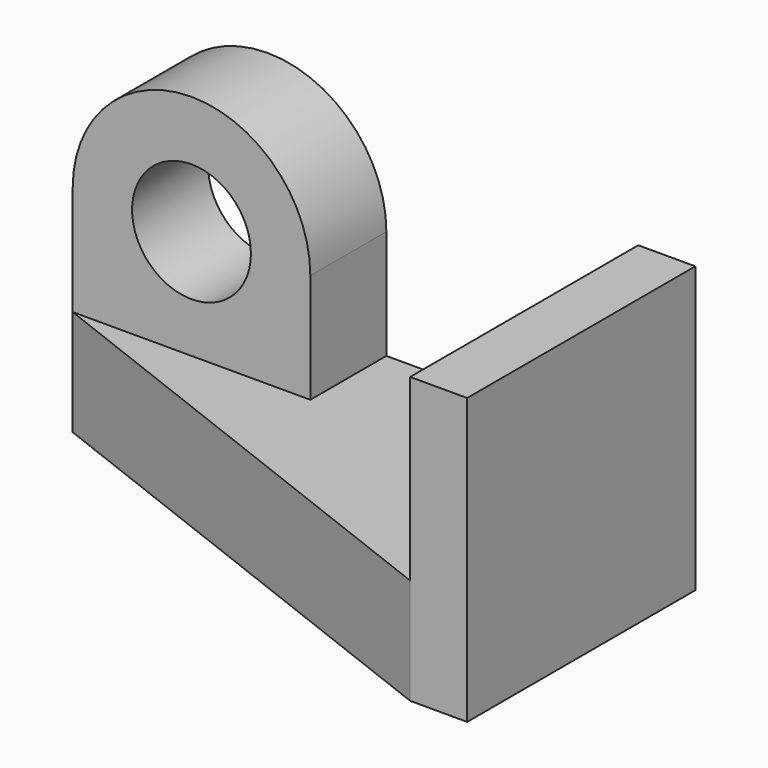
from build123d import *

# Parameters (mm, degrees)
F0_W      = 1524
F0_H      = 1524
F1_DEPTH  = 304.8
F2_W      = 1524
F2_H      = 565.6017661095
F3_DEPTH  = 2921
F4_W      = 1270
F4_H      = 508
F5_DEPTH  = 584.2
F7_DEPTH  = 508
F8_R      = 317.5
F9_DEPTH  = 25.4
F10_DEPTH = 25.4
F11_R     = 317.5
F12_DEPTH = 1930.4
F14_DEPTH = 2006.6


with BuildPart() as f1:
    # F0 (on Right) → F1 (new body)
    with BuildSketch(Plane.YZ):
        with Locations((-762, 762)):
            Rectangle(F0_W, F0_H)
    extrude(amount=F1_DEPTH)

    # F2 (on face) → F3 (join)
    with BuildSketch(Plane.YZ.offset(304.8)):
        with Locations((-762, 282.8008830547)):
            Rectangle(F2_W, F2_H)
    extrude(amount=-F3_DEPTH)

    # F4 (on face) → F5 (join)
    with BuildSketch(Plane.XY.offset(565.6017661095)):
        with Locations((-1981.2, -254)):
            Rectangle(F4_W, F4_H)
    extrude(amount=F5_DEPTH)

    # F6 (on face) → F7 (join)
    with BuildSketch(Plane.XZ.offset(508)):
        with BuildLine():
            Line((-2616.2, 1149.8017661095), (-1346.2, 1149.8017661095))
            ThreePointArc((-1346.2, 1149.8017661095), (-1981.2, 1784.8017661095), (-2616.2, 1149.8017661095))
        make_face()
    extrude(amount=-F7_DEPTH)

    # F8 (on face) → F9 (cut)
    with BuildSketch(Plane.XZ.offset(508)):
        with Locations((-1981.2, 1149.8017661095)):
            Circle(F8_R)
    extrude(amount=-F9_DEPTH, mode=Mode.SUBTRACT)

    # F10 (add): a face of the model
    f10_faces = [f1.faces().sort_by_distance(p)[0] for p in [
        (-1981.2, -482.6, 1149.8017661095),
    ]]
    extrude(f10_faces, amount=-F10_DEPTH)

    # F11 (on face) → F12 (cut)
    with BuildSketch(Plane.XZ.offset(482.6)):
        with Locations((-1981.2, 1149.8017661095)):
            Circle(F11_R)
    extrude(amount=-F12_DEPTH, mode=Mode.SUBTRACT)

    # F13 (on face) → F14 (cut)
    with BuildSketch(Plane.XY.offset(565.6017661095)):
        Polygon((0, -1524), (-2616.2, -508), (-2616.2, -1524), align=None)
    extrude(amount=-F14_DEPTH, mode=Mode.SUBTRACT)


solid = f1.part
